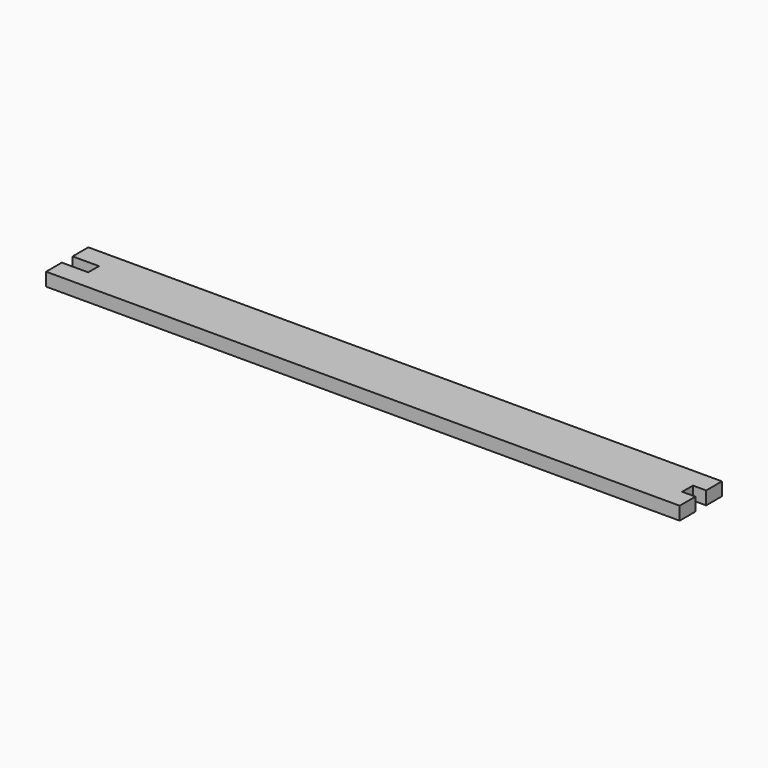
from build123d import *

# Parameters (mm, degrees)
PAD_DEPTH = 2.5


with BuildPart() as part:
    # Sketch → Pad (new body, symmetric)
    with BuildSketch(Plane.XY):
        Polygon((0, 2.55), (0, 10), (240, 10), (240, 2.55), (235, 2.55), (235, -2.55), (240, -2.55), (240, -10), (0, -10), (0, -2.55), (10, -2.55), (10, 2.55), align=None)
    extrude(amount=PAD_DEPTH, both=True)


solid = part.part
